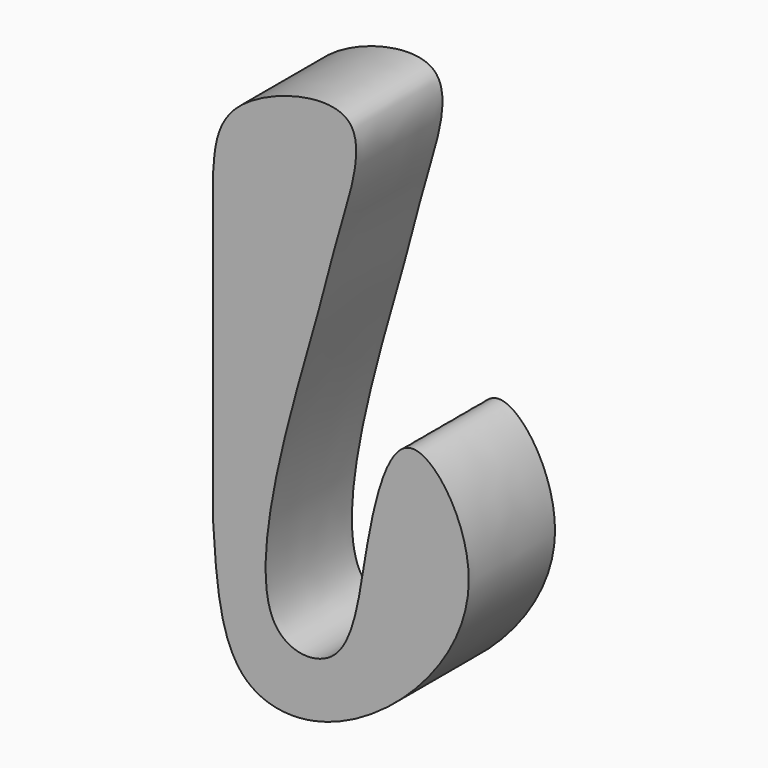
from build123d import *

# Parameters (mm, degrees)
F1_DEPTH = 25


with BuildPart() as f1:
    # F0 (on Front) → F1 (new body)
    with BuildSketch(Plane.XZ):
        with BuildLine():
            add(Edge.make_bspline(
                [(0, -70.3769698739), (0.7415403363, -82.3657412884), (2.1315176296, -104.8380455228), (33.7750878883, -106.5100740044), (70.0969880909, -67.7607699434), (43.8689239195, -29.386027389), (34.5977330552, -64.7759560402), (32.3860743014, -93.0872585614), (3.0522395281, -90.7839905082), (24.9654891473, -20.1164553706), (28.4376031519, -3.5365046179), (39.1395590807, 28.9395315441), (1.1632407557, 18.1912653903), (0.3594920685, 5.6218934835), (0, 0)],
                knots=[0, 0, 0, 0, 0.0879366966, 0.1648325863, 0.2737964286, 0.3555530976, 0.4345825361, 0.5175962448, 0.5760052139, 0.7027420977, 0.7809714997, 0.8543002643, 0.9348329892, 1, 1, 1, 1], degree=3))
            Line((0, 0), (0, -70.3769698739))
        make_face()
    extrude(amount=F1_DEPTH)


solid = f1.part
